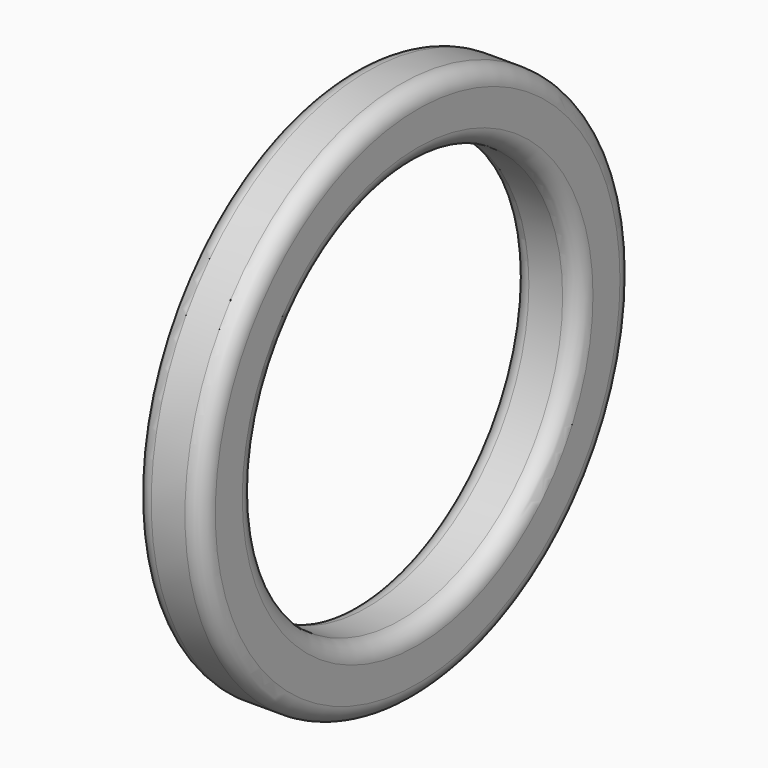
from build123d import *

# Parameters (mm, degrees)
F0_W = 76.2
F0_H = 76.2
F2_R = 19.05


with BuildPart() as f1:
    # F0 (on Top) → F1 (revolve)
    with BuildSketch(Plane.XY):
        with Locations((38.1, 266.7)):
            Rectangle(F0_W, F0_H)
    revolve(axis=Axis((37.5285, 0, 0), (1, 0, 0)))

    # F2
    f2_edges = [f1.edges().sort_by_distance(p)[0] for p in [
        (76.2, -228.6, 0),
        (76.2, -304.8, 0),
        (0, -304.8, 0),
        (0, -228.6, 0),
    ]]
    fillet(f2_edges, radius=F2_R)


solid = f1.part
